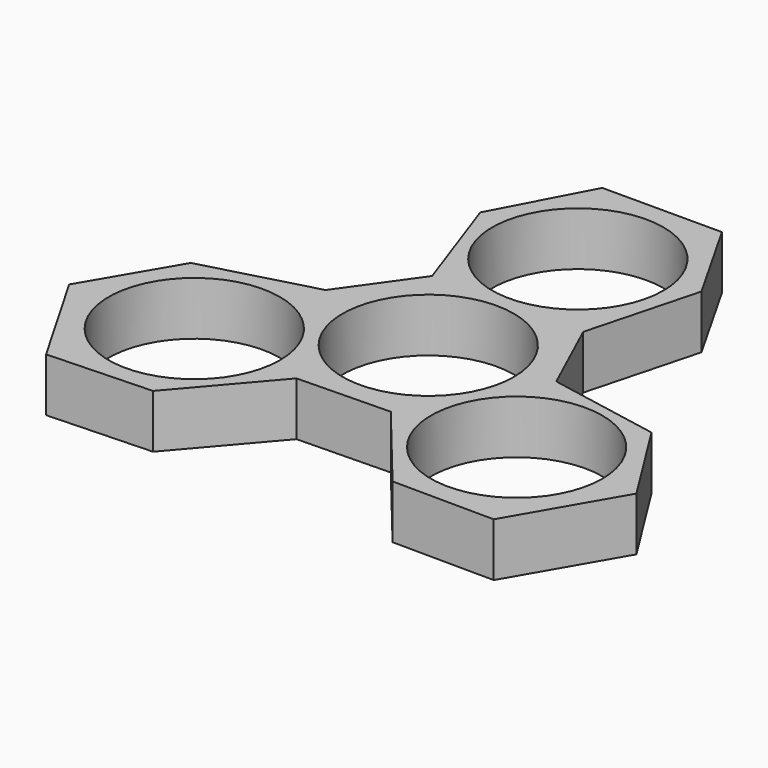
from build123d import *

# Parameters (mm, degrees)
F0_R     = 11.2
F1_DEPTH = 7
F2_DEPTH = 7


with BuildPart() as f1:
    # F0 (on Top) → F1 (new body)
    with BuildSketch(Plane.XY):
        Polygon((7.778355, 38.276713), (-7.863495, 38.276713), (-14.210913, 26.261959), (-9.26244, 12.206962), (-15.820878, 2.988639), (-30.312402, -0.928071), (-37.037784, -12.402103), (-29.216858, -25.948344), (-15.638067, -25.437992), (-5.940319, -14.12499), (6.191501, -13.86279), (15.959934, -25.787275), (29.259428, -25.87461), (37.080354, -12.32837), (29.848981, -0.823968), (15.20276, 1.918027), (10.498676, 12.206962), (14.352468, 26.715346), align=None)
        with Locations((-20.96608, -12.037974)):
            Circle(F0_R, mode=Mode.SUBTRACT)
        Circle(F0_R, mode=Mode.SUBTRACT)
        with Locations((21.115096, -11.951939)):
            Circle(F0_R, mode=Mode.SUBTRACT)
        with Locations((0, 24.448412)):
            Circle(F0_R, mode=Mode.SUBTRACT)
    extrude(amount=F1_DEPTH)

    # F0 (on Top) → F2 (join)
    with BuildSketch(Plane.XY):
        Polygon((7.778355, 38.276713), (-7.863495, 38.276713), (-14.210913, 26.261959), (-9.26244, 12.206962), (-15.820878, 2.988639), (-30.312402, -0.928071), (-37.037784, -12.402103), (-29.216858, -25.948344), (-15.638067, -25.437992), (-5.940319, -14.12499), (6.191501, -13.86279), (15.959934, -25.787275), (29.259428, -25.87461), (37.080354, -12.32837), (29.848981, -0.823968), (15.20276, 1.918027), (10.498676, 12.206962), (14.352468, 26.715346), align=None)
        with Locations((-20.96608, -12.037974)):
            Circle(F0_R, mode=Mode.SUBTRACT)
        Circle(F0_R, mode=Mode.SUBTRACT)
        with Locations((21.115096, -11.951939)):
            Circle(F0_R, mode=Mode.SUBTRACT)
        with Locations((0, 24.448412)):
            Circle(F0_R, mode=Mode.SUBTRACT)
    extrude(amount=F2_DEPTH)


solid = f1.part
